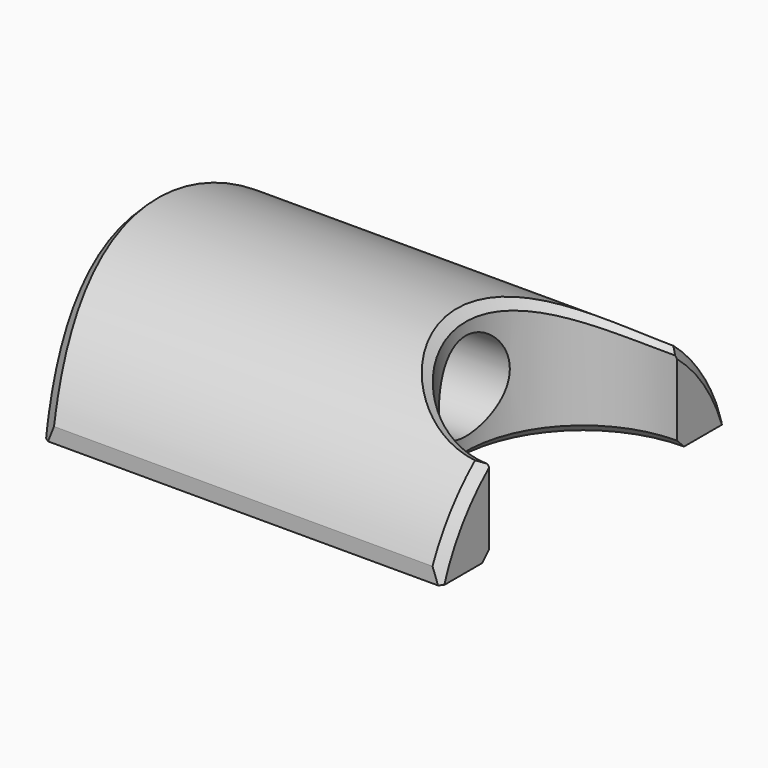
from build123d import *

# Parameters (mm, degrees)
PAD_DEPTH         = 15
SKETCH001_R       = 5
POCKET_DEPTH      = 35.001
POCKET_DEPTH_BACK = -14.001
SKETCH002_R       = 33.208943
SKETCH002_R_2     = 21.759288
POCKET001_DEPTH   = 49.001
CHAMFER_SIZE      = 1
CHAMFER001_SIZE   = 1
CHAMFER002_SIZE   = 1
CHAMFER003_SIZE   = 1
CHAMFER004_SIZE   = 1
CHAMFER005_SIZE   = 1


with BuildPart() as part:
    # Sketch → Pad (new body)
    with BuildSketch(Plane.XY):
        with BuildLine():
            ThreePointArc((0, 13.25), (-13.25, 0), (0, -13.25))
            Line((0, -20), (0, -13.25))
            Line((0, -20), (-44.732538, -20))
            ThreePointArc((-44.732538, 20), (-49, 0), (-44.732538, -20))
            Line((-44.732538, 20), (0, 20))
            Line((0, 13.25), (0, 20))
        make_face()
    extrude(amount=PAD_DEPTH)

    # Sketch001 → Pocket (cut, two sides)
    with BuildSketch(Plane.YZ.offset(-14)) as pocket_sk:
        with Locations((0, 7.5)):
            Circle(SKETCH001_R)
    extrude(amount=-POCKET_DEPTH, mode=Mode.SUBTRACT)
    extrude(pocket_sk.sketch, amount=-POCKET_DEPTH_BACK, mode=Mode.SUBTRACT)

    # Sketch002 → Pocket001 (cut, through all)
    with BuildSketch(Plane.YZ):
        with Locations((0, -6.869182)):
            Circle(SKETCH002_R)
        with Locations((0, -6.869182)):
            Circle(SKETCH002_R_2, mode=Mode.SUBTRACT)
    extrude(amount=-POCKET001_DEPTH, mode=Mode.SUBTRACT)

    # Chamfer
    chamfer_edges = [part.edges().sort_by_distance(p)[0] for p in [
        (-48.74423, -5, 7.5),
    ]]
    chamfer(chamfer_edges, length=CHAMFER_SIZE)

    # Chamfer001
    chamfer001_edges = [part.edges().sort_by_distance(p)[0] for p in [
        (-13.25, 0, 0),
    ]]
    chamfer(chamfer001_edges, length=CHAMFER001_SIZE)

    # Chamfer002
    chamfer002_edges = [part.edges().sort_by_distance(p)[0] for p in [
        (-49, 0, 14.890106),
    ]]
    chamfer(chamfer002_edges, length=CHAMFER002_SIZE)

    # Chamfer003
    chamfer003_edges = [part.edges().sort_by_distance(p)[0] for p in [
        (-13.25, 0, 14.890106),
    ]]
    chamfer(chamfer003_edges, length=CHAMFER003_SIZE)

    # Chamfer004
    chamfer004_edges = [part.edges().sort_by_distance(p)[0] for p in [
        (0, -17.48534, 6.081861),
    ]]
    chamfer(chamfer004_edges, length=CHAMFER004_SIZE)

    # Chamfer005
    chamfer005_edges = [part.edges().sort_by_distance(p)[0] for p in [
        (0, 17.485451, 6.081711),
    ]]
    chamfer(chamfer005_edges, length=CHAMFER005_SIZE)


solid = part.part
